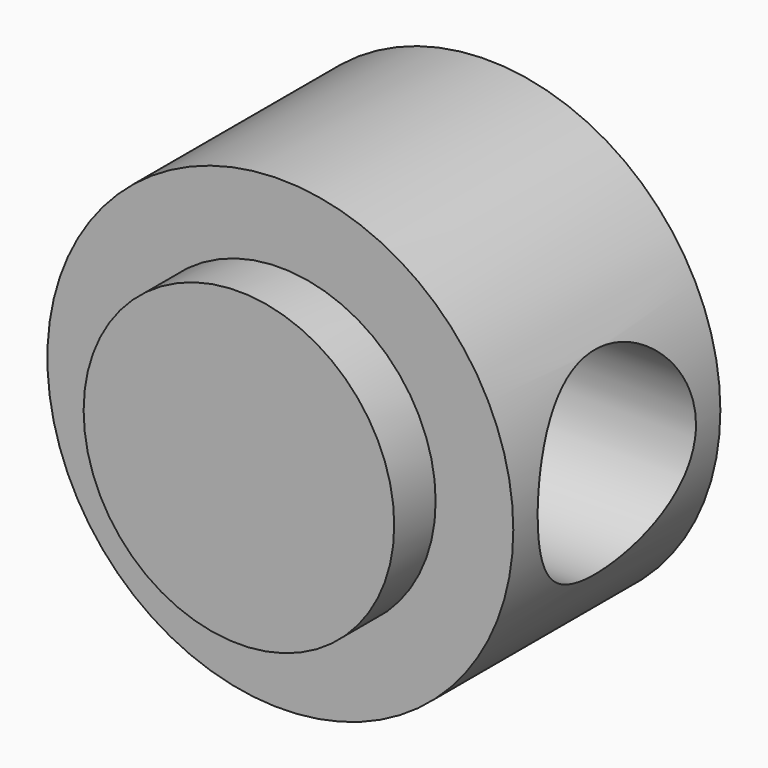
from build123d import *

# Parameters (mm, degrees)
F0_R     = 30
F1_DEPTH = 35
F0_R_2   = 45
F2_DEPTH = 25
F3_R     = 19.112105
F4_DEPTH = 45


with BuildPart() as f1:
    # F0 (on Front) → F1 (new body, symmetric)
    with BuildSketch(Plane.XZ):
        Circle(F0_R)
    extrude(amount=F1_DEPTH, both=True)

    # F0 (on Front) → F2 (join, symmetric)
    with BuildSketch(Plane.XZ):
        Circle(F0_R_2)
        Circle(F0_R, mode=Mode.SUBTRACT)
    extrude(amount=F2_DEPTH, both=True)

    # F3 (on Right) → F4 (cut, symmetric)
    with BuildSketch(Plane.YZ):
        Circle(F3_R)
    extrude(amount=F4_DEPTH, both=True, mode=Mode.SUBTRACT)


solid = f1.part
